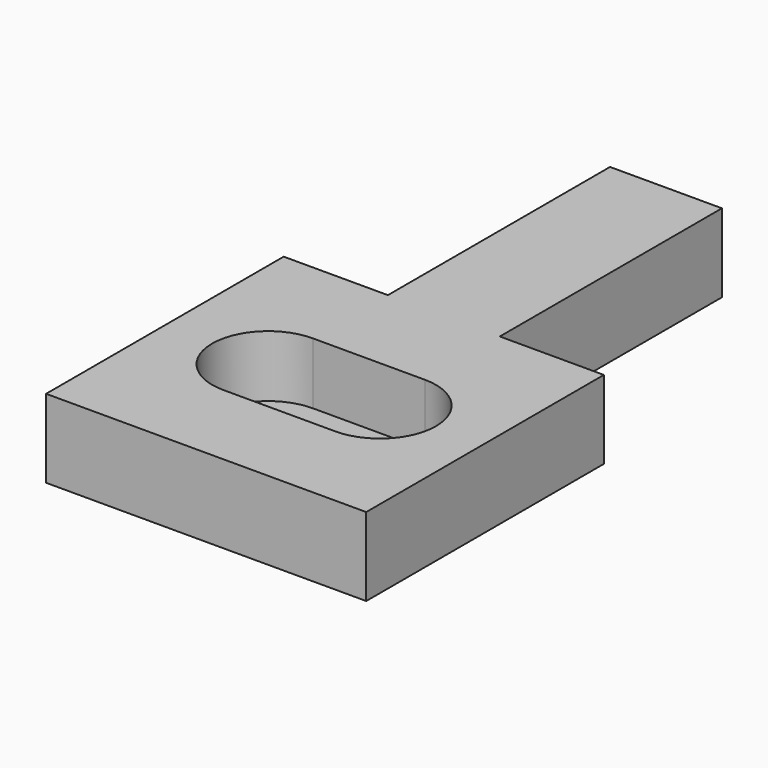
from build123d import *

# Parameters (mm, degrees)
F0_W     = 36.3202914596
F0_H     = 46.1400337517
F1_DEPTH = 8.89
F3_DEPTH = 6.985
F5_DEPTH = 25.4
F6_DEPTH = 6.35
F7_DEPTH = 6.096


with BuildPart() as f1:
    # F0 (on Top) → F1 (new body)
    with BuildSketch(Plane.XY):
        with Locations((18.1601457298, -23.0700168759)):
            Rectangle(F0_W, F0_H)
    extrude(amount=F1_DEPTH)

    # F2 (on face) → F3 (cut)
    with BuildSketch(Plane.XY.offset(8.89)):
        with BuildLine():
            Line((11.814377988, -29.4157846176), (24.5059134716, -29.4157846176))
            ThreePointArc((24.5059134716, -29.4157846176), (30.8516812133, -23.0700168759), (24.5059134716, -16.7242491341))
            Line((24.5059134716, -16.7242491341), (11.814377988, -16.7242491341))
            ThreePointArc((11.814377988, -16.7242491341), (5.4686102462, -23.0700168759), (11.814377988, -29.4157846176))
        make_face()
    extrude(amount=-F3_DEPTH, mode=Mode.SUBTRACT)

    # F4 (on face) → F5 (join)
    with BuildSketch(Plane(origin=(0, 0, 0), x_dir=(-1, 0, 0), z_dir=(0, 1, 0))):
        Polygon((-24.5190151036, 0), (-11.8220960721, 0), (-11.8220960721, 4.445), (-11.8220960721, 8.89), (-24.5190151036, 8.89), (-24.5190151036, 4.445), align=None)
    extrude(amount=F5_DEPTH)

    # F6 (cut): a face of the model
    f6_faces = [f1.faces().sort_by_distance(p)[0] for p in [
        (18.1601457298, -46.1400337517, 4.445),
    ]]
    extrude(f6_faces, amount=-F6_DEPTH, mode=Mode.SUBTRACT)

    # F7 (cut): faces of the model
    f7_faces = [f1.faces().sort_by_distance(p)[0] for p in [
        (5.9110480361, 0, 4.445),
        (30.4196532816, 0, 4.445),
    ]]
    extrude(f7_faces, amount=-F7_DEPTH, mode=Mode.SUBTRACT)


solid = f1.part
